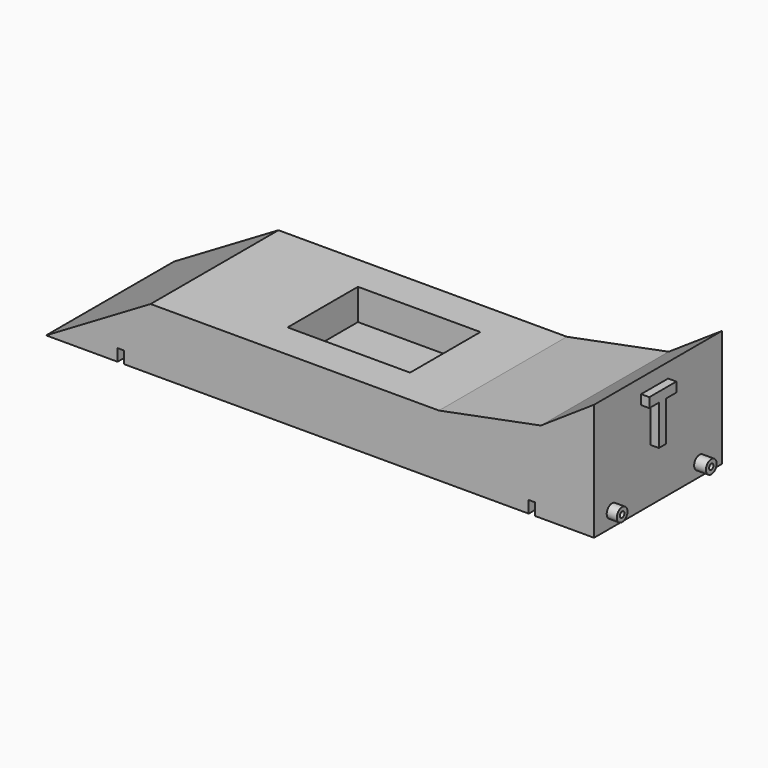
from build123d import *

# Parameters (mm, degrees)
F0_W      = 152.4
F0_H      = 44.45
F1_DEPTH  = 38.1
F3_DEPTH  = 87.376
F4_W      = 34.063664
F4_H      = 24.459008
F5_DEPTH  = 8.636
F6_W      = 1.7526
F6_H      = 12.453256
F7_DEPTH  = 71.12
F8_W      = 1.7526
F8_H      = 5.531359
F9_DEPTH  = 63.2968
F10_R     = 1.848563
F10_R_2   = 0.78284
F11_DEPTH = 2.8194
F12_R     = 1.867057
F12_R_2   = 0.756279
F13_DEPTH = 3.2766
F14_W     = 2.55886
F14_H     = 11.105731
F15_DEPTH = 2.286


with BuildPart() as f1:
    # F0 (on Top) → F1 (new body)
    with BuildSketch(Plane.XY):
        Rectangle(F0_W, F0_H)
    extrude(amount=F1_DEPTH)

    # F2 (on face) → F3 (cut)
    with BuildSketch(Plane.XZ.offset(22.225)):
        Polygon((-92.090726, 33.964641), (-76.2, 0), (-47.134604, 17.130854), (33.073444, 17.130854), (61.393816, 22.676103), (76.2, 32.57833), (86.743511, 41.292287), (-31.291042, 57.729989), align=None)
    extrude(amount=-F3_DEPTH, mode=Mode.SUBTRACT)

    # F4 (on face) → F5 (cut)
    with BuildSketch(Plane.XY.offset(17.130854)):
        Rectangle(F4_W, F4_H)
    extrude(amount=-F5_DEPTH, mode=Mode.SUBTRACT)

    # F6 (on face) → F7 (cut)
    with BuildSketch(Plane.XZ.offset(22.225)):
        with Locations((-55.441208, -2.873828)):
            Rectangle(F6_W, F6_H)
    extrude(amount=-F7_DEPTH, mode=Mode.SUBTRACT)

    # F8 (on face) → F9 (cut)
    with BuildSketch(Plane.XZ.offset(22.225)):
        with Locations((58.901841, 0.58712)):
            Rectangle(F8_W, F8_H)
    extrude(amount=-F9_DEPTH, mode=Mode.SUBTRACT)

    # F10 (on face) → F11 (join)
    with BuildSketch(Plane.YZ.offset(76.2)):
        with Locations((-15.979337, 4.065371)):
            Circle(F10_R)
        with Locations((-15.979337, 4.065371)):
            Circle(F10_R_2, mode=Mode.SUBTRACT)
    extrude(amount=F11_DEPTH)

    # F12 (on face) → F13 (join)
    with BuildSketch(Plane.YZ.offset(76.2)):
        with Locations((14.432833, 3.567662)):
            Circle(F12_R)
        with Locations((14.432833, 3.567662)):
            Circle(F12_R_2, mode=Mode.SUBTRACT)
    extrude(amount=F13_DEPTH)

    # F14 (on face) → F15 (join)
    with BuildSketch(Plane.YZ.offset(76.2)):
        Polygon((-5.871529, 25.838383), (-2.55886, 25.838383), (0, 25.838383), (3.520685, 25.838383), (3.520685, 28.528722), (-5.871529, 28.528722), align=None)
        with Locations((-1.27943, 20.285518)):
            Rectangle(F14_W, F14_H)
    extrude(amount=F15_DEPTH)


solid = f1.part
